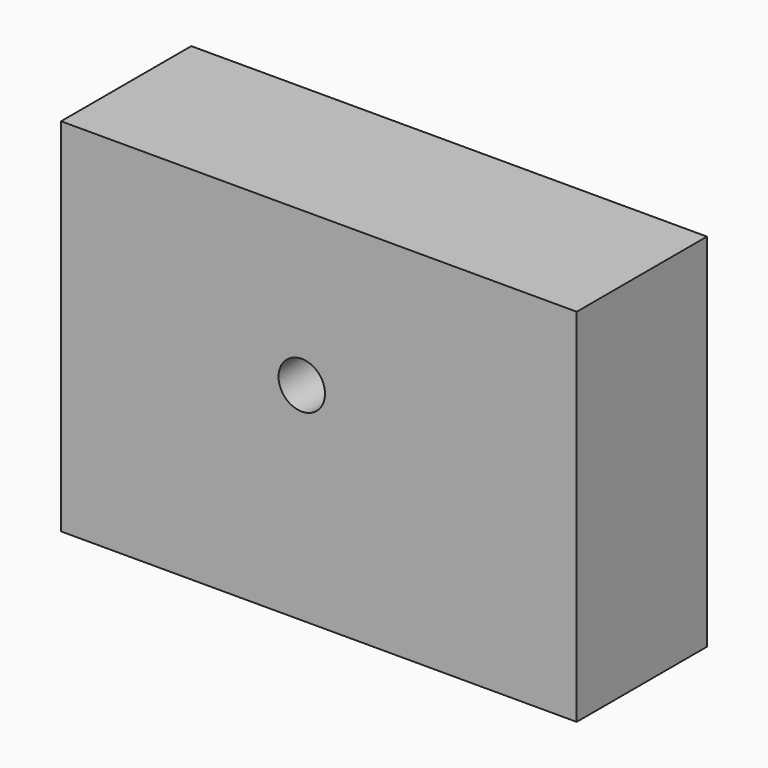
from build123d import *

# Parameters (mm, degrees)
F0_W           = 79.1961923242
F0_H           = 55.4575081915
F1_DEPTH       = 25
F2_D           = 7.1374
F2_CSINK_D     = 13.4874
F2_CSINK_ANGLE = 82


with BuildPart() as f1:
    # F0 (on Front) → F1 (new body)
    with BuildSketch(Plane.XZ):
        with Locations((2.6301331818, -4.0626497939)):
            Rectangle(F0_W, F0_H)
    extrude(amount=F1_DEPTH)

    # F2 (through all)
    with Locations(Plane(origin=(0, 0, 0), x_dir=(1, 0, 0), z_dir=(0, 1, 0))):
        with Locations((0, 0)):
            CounterSinkHole(F2_D / 2, F2_CSINK_D / 2, counter_sink_angle=F2_CSINK_ANGLE)


solid = f1.part
